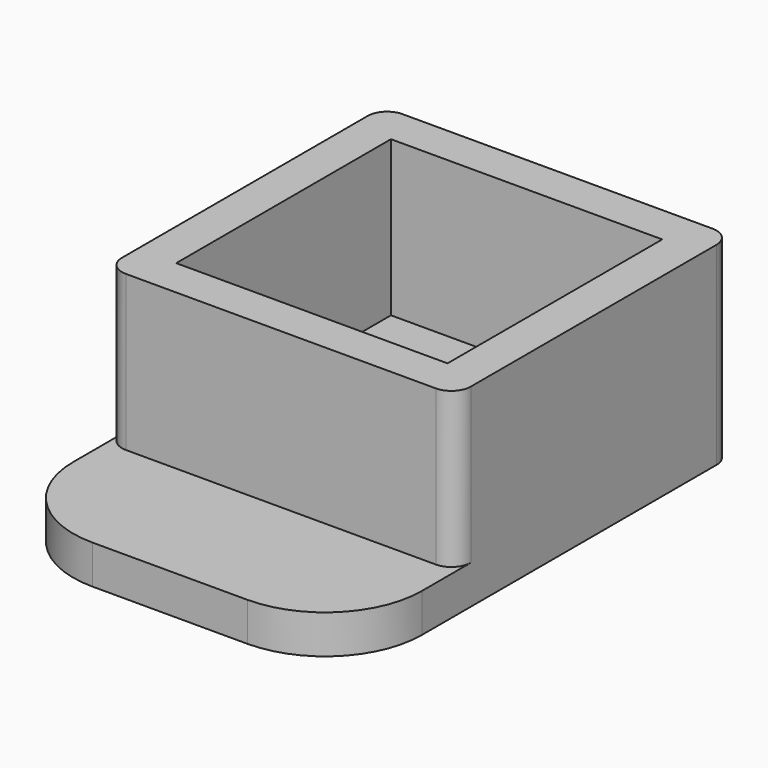
from build123d import *

# Parameters (mm, degrees)
F0_W     = 18
F0_H     = 17.850996
F0_W_2   = 14
F0_H_2   = 13.850996
F1_DEPTH = 10
F2_W     = 18
F2_H     = 25
F3_DEPTH = 2
F4_R     = 5
F5_R     = 1


with BuildPart() as f1:
    # F0 (on Top) → F1 (new body)
    with BuildSketch(Plane.XY):
        Rectangle(F0_W, F0_H)
        Rectangle(F0_W_2, F0_H_2, mode=Mode.SUBTRACT)
    extrude(amount=F1_DEPTH)

    # F2 (on Top) → F3 (join)
    with BuildSketch(Plane.XY):
        with Locations((0, -3.574502)):
            Rectangle(F2_W, F2_H)
    extrude(amount=F3_DEPTH)

    # F4
    f4_edges = [f1.edges().sort_by_distance(p)[0] for p in [
        (9, -16.074502, 1),
        (-9, -16.074502, 1),
    ]]
    fillet(f4_edges, radius=F4_R)

    # F5
    f5_edges = [f1.edges().sort_by_distance(p)[0] for p in [
        (9, -8.925498, 6),
        (-9, -8.925498, 6),
        (-9, 8.925498, 5),
        (9, 8.925498, 5),
    ]]
    fillet(f5_edges, radius=F5_R)


solid = f1.part
